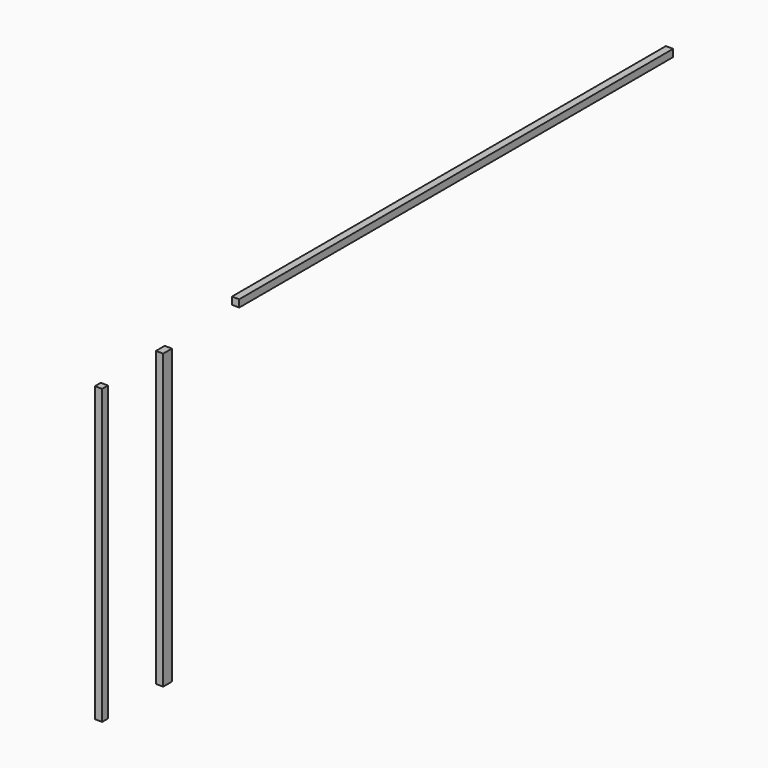
from build123d import *

# Parameters (mm, degrees)
F0_W     = 3700
F0_H     = 50
F0_W_2   = 75
F0_H_2   = 2000
F0_W_3   = 50
F1_DEPTH = 50


with BuildPart() as f1:
    # F0 (on Right) → F1 (new body)
    with BuildSketch(Plane.YZ):
        with Locations((1452.012424, 16.64005)):
            Rectangle(F0_W, F0_H)
        with Locations((-1008.83522, -1021.33131)):
            Rectangle(F0_W_2, F0_H_2)
        with Locations((-1541.988468, -1021.33131)):
            Rectangle(F0_W_3, F0_H_2)
    extrude(amount=F1_DEPTH)


solid = f1.part
